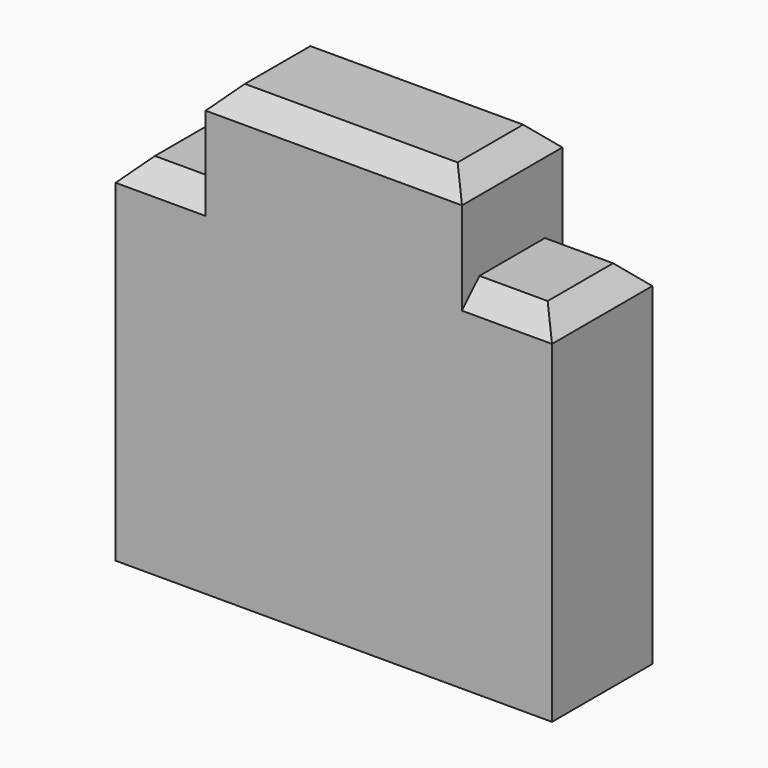
from build123d import *

# Parameters (mm, degrees)
SKETCH008_W     = 4
SKETCH008_H     = 1.15
PAD005_DEPTH    = 4.1
SKETCH009_W     = 0.825
SKETCH009_H     = 0.85
POCKET002_DEPTH = 5
CHAMFER005_SIZE = 0.2


with BuildPart() as part:
    # Sketch008 → Pad005 (new body)
    with BuildSketch(Plane.XY):
        Rectangle(SKETCH008_W, SKETCH008_H)
    extrude(amount=PAD005_DEPTH)

    # Sketch009 (on Face1 of Pad005) → Pocket002 (cut)
    with BuildSketch(Plane(origin=(0, 0.575, 0), x_dir=(-1, 0, 0), z_dir=(0, 1, 0))):
        with Locations((-1.5875, 3.675)):
            Rectangle(SKETCH009_W, SKETCH009_H)
        with Locations((1.5875, 3.675)):
            Rectangle(SKETCH009_W, SKETCH009_H)
    extrude(amount=-POCKET002_DEPTH, mode=Mode.SUBTRACT)

    # Chamfer005
    chamfer005_edges = [part.edges().sort_by_distance(p)[0] for p in [
        (0, 0.575, 4.1),
        (0, -0.575, 4.1),
        (1.5875, 0.575, 3.25),
        (-1.5875, 0.575, 3.25),
        (-1.5875, -0.575, 3.25),
        (1.5875, -0.575, 3.25),
        (2, 0, 3.25),
        (-2, 0, 3.25),
        (1.175, 0, 4.1),
        (-1.175, 0, 4.1),
    ]]
    chamfer(chamfer005_edges, length=CHAMFER005_SIZE)


with BuildPart() as part_1:
    # Body047 placement: moved
    add(part.part.moved(Location((0, 78, 0))))


solid = part_1.part
